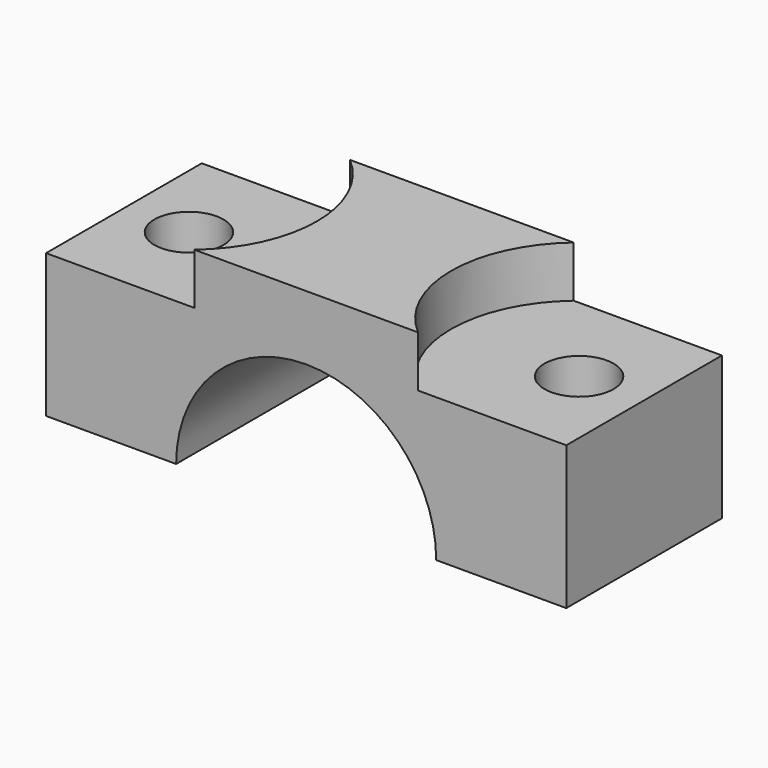
from build123d import *

# Parameters (mm, degrees)
F1_DEPTH       = 9.5
F4_D           = 6.75
F4_CBORE_D     = 25
F4_CBORE_DEPTH = 5


with BuildPart() as f1:
    # F0 (on Front) → F1 (new body, symmetric)
    with BuildSketch(Plane.XZ):
        with BuildLine():
            ThreePointArc((-12.7, 0), (0, 12.7), (12.7, 0))
            Line((12.7, 0), (25.4, 0))
            Line((25.4, 0), (25.4, 19))
            Line((25.4, 19), (-25.4, 19))
            Line((-25.4, 19), (-25.4, 0))
            Line((-25.4, 0), (-12.7, 0))
        make_face()
    extrude(amount=F1_DEPTH, both=True)

    # F4 (through all)
    with Locations(Plane.XY.offset(19)):
        with Locations((19.05, 0), (-19.05, 0)):
            CounterBoreHole(F4_D / 2, F4_CBORE_D / 2, F4_CBORE_DEPTH)


solid = f1.part
